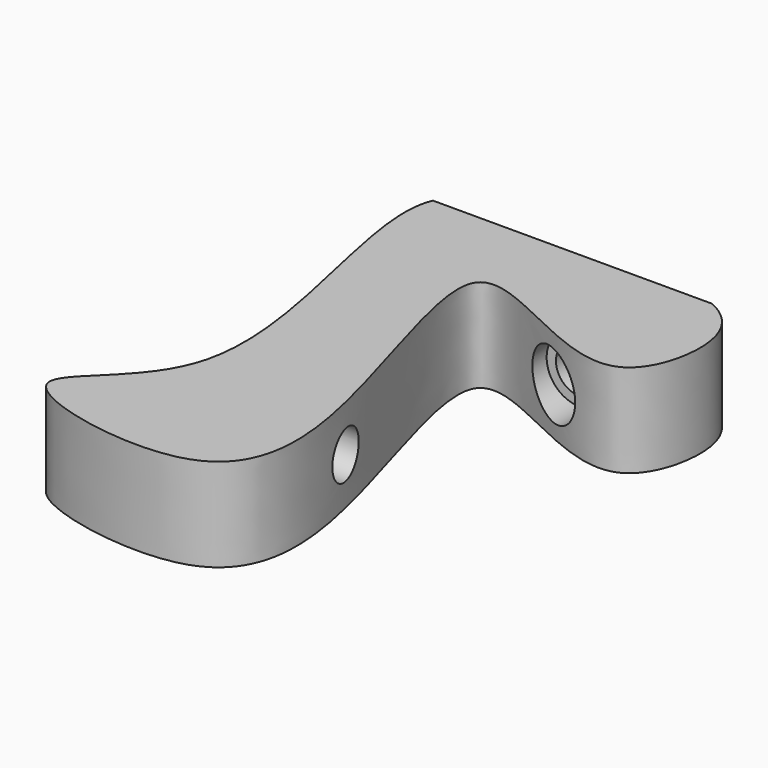
from build123d import *

# Parameters (mm, degrees)
F1_DEPTH = 20
F2_R     = 5
F3_DEPTH = 30
F4_R     = 7
F4_R_2   = 5
F5_DEPTH = 25
F7_R     = 5
F8_DEPTH = 70
F9_DEPTH = 25


with BuildPart() as f1:
    # F0 (on Top) → F1 (new body)
    with BuildSketch(Plane.XY):
        with BuildLine():
            Line((49.1490735081, 42.5866870667), (-10.8509264919, 42.5866870667))
            add(Edge.make_bspline(
                [(-10.8509264919, 42.5866870667), (-16.2541864848, 30.263261364), (12.348011826, -31.1026736188), (-36.4732385778, -51.1637182931), (22.3007579971, -64.0191976869), (30.3909667596, -31.925935524), (3.1021814926, 32.2231264682), (29.263885653, 20.6553045746), (53.7825937435, 8.1699280375), (59.9564330523, 32.2258971402), (53.9866422451, 40.3594338558), (49.1490735081, 42.5866870667)],
                knots=[0.0891370983, 0.0891370983, 0.0891370983, 0.0891370983, 0.2289761722, 0.31556389, 0.4147943253, 0.5020814364, 0.6268979098, 0.6918449824, 0.7736962637, 0.8428208811, 0.9056235672, 0.9056235672, 0.9056235672, 0.9056235672], degree=3))
        make_face()
    extrude(amount=F1_DEPTH)

    # F2 (on face) → F3 (cut)
    with BuildSketch(Plane(origin=(0, 42.5866870667, 0), x_dir=(-1, 0, 0), z_dir=(0, 1, 0))):
        with Locations((-34.6490735081, 10)):
            Circle(F2_R)
    extrude(amount=-F3_DEPTH, mode=Mode.SUBTRACT)

    # F4 (on Front) → F5 (cut)
    with BuildSketch(Plane.XZ):
        with Locations((34.6490735081, 10)):
            Circle(F4_R)
        with Locations((34.6490735081, 10)):
            Circle(F4_R_2, mode=Mode.SUBTRACT)
    extrude(amount=-F5_DEPTH, mode=Mode.SUBTRACT)

    # F7 (on offset) → F8 (cut)
    with BuildSketch(Plane.YZ.offset(-25)):
        with Locations((-23.5965699087, 10)):
            Circle(F7_R)
    extrude(amount=F8_DEPTH, mode=Mode.SUBTRACT)


with BuildPart() as f9:
    # F9 (new): a face of the model
    f9_faces = [f1.part.faces().sort_by_distance(p)[0] for p in [
        (13.3777785007, -1.1236720454, 20),
    ]]
    extrude(f9_faces, amount=F9_DEPTH)


solid = f1.part
